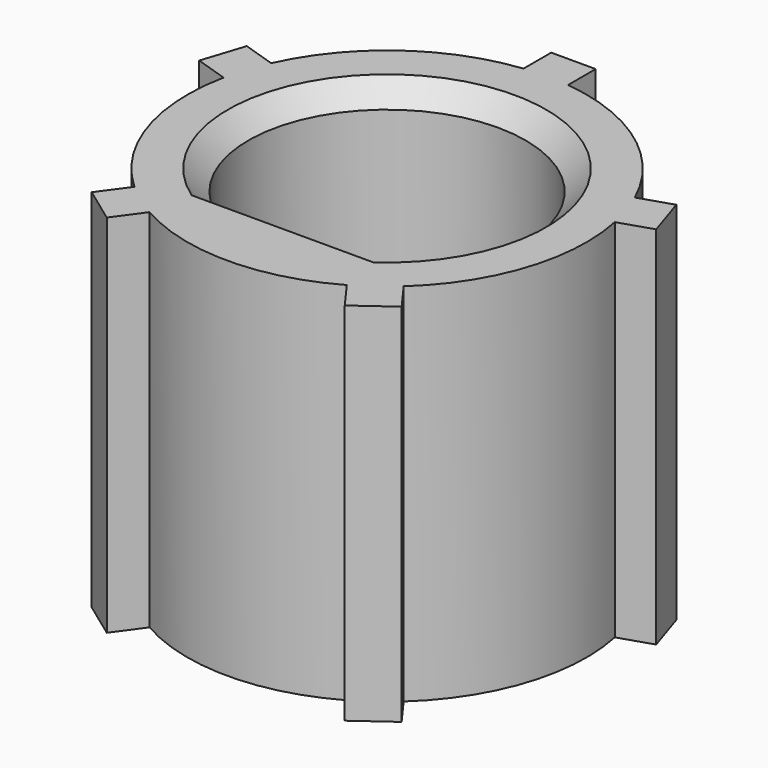
from build123d import *

# Parameters (mm, degrees)
F1_DEPTH = 10.4394
F2_SIZE  = 0.5842


with BuildPart() as f1:
    # F0 (on Top) → F1 (new body)
    with BuildSketch(Plane.XY):
        with BuildLine():
            Line((-6.525317, 1.452525), (-5.585705, 1.147227))
            ThreePointArc((-5.585705, 1.147227), (-5.42321, -1.762108), (-3.844607, -4.211321))
            Line((-3.844607, -4.211321), (-4.425319, -5.010603))
            Line((-4.425319, -5.010603), (-3.397868, -5.75709))
            Line((-3.397868, -5.75709), (-2.817155, -4.957808))
            ThreePointArc((-2.817155, -4.957808), (0, -5.7023), (2.817155, -4.957808))
            Line((2.817155, -4.957808), (3.397868, -5.75709))
            Line((3.397868, -5.75709), (4.425319, -5.010603))
            Line((4.425319, -5.010603), (3.844607, -4.211321))
            ThreePointArc((3.844607, -4.211321), (5.42321, -1.762108), (5.585705, 1.147227))
            Line((5.585705, 1.147227), (6.525317, 1.452525))
            Line((6.525317, 1.452525), (6.132865, 2.660367))
            Line((6.132865, 2.660367), (5.193253, 2.355069))
            ThreePointArc((5.193253, 2.355069), (3.351728, 4.613258), (0.635, 5.666833))
            Line((0.635, 5.666833), (0.635, 6.6548))
            Line((0.635, 6.6548), (-0.635, 6.6548))
            Line((-0.635, 6.6548), (-0.635, 5.666833))
            ThreePointArc((-0.635, 5.666833), (-3.351728, 4.613258), (-5.193253, 2.355069))
            Line((-5.193253, 2.355069), (-6.132865, 2.660367))
            Line((-6.132865, 2.660367), (-6.525317, 1.452525))
        make_face()
        with BuildLine():
            ThreePointArc((-2.404295, -3.1496), (0, 3.9624), (2.404295, -3.1496))
            Line((2.404295, -3.1496), (-2.404295, -3.1496))
        make_face(mode=Mode.SUBTRACT)
    extrude(amount=F1_DEPTH)

    # F2
    f2_edges = [f1.edges().sort_by_distance(p)[0] for p in [
        (0, 3.9624, 10.4394),
        (0, -3.1496, 10.4394),
        (0, -3.1496, 0),
        (0, 3.9624, 0),
    ]]
    chamfer(f2_edges, length=F2_SIZE)


solid = f1.part
